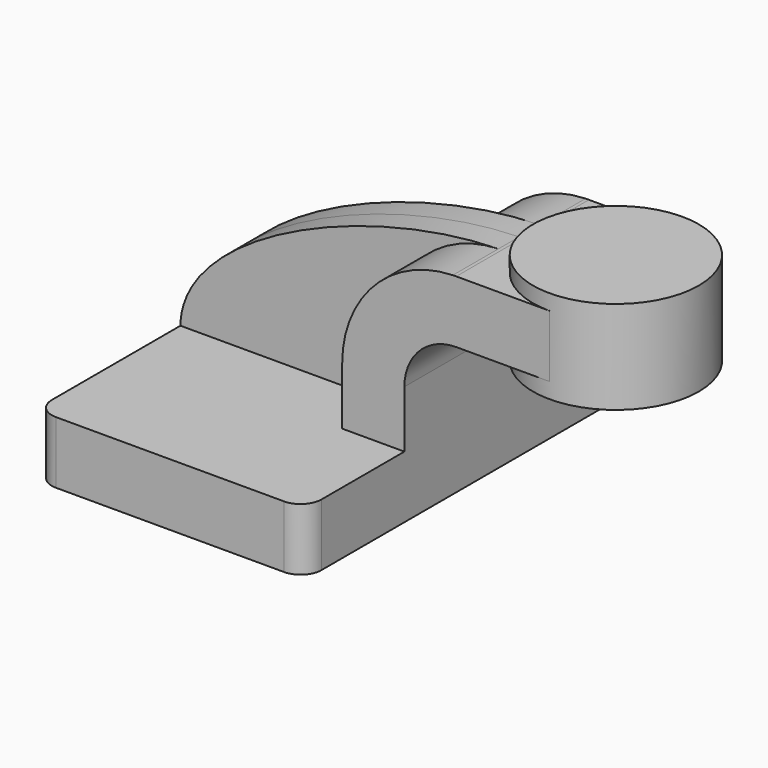
from build123d import *

# Parameters (mm, degrees)
F1_DEPTH = 63.5
F0_W     = 25.4
F0_H     = 19.05
F2_DEPTH = 25.4
F3_DEPTH = 7.9375
F5_R     = 6.35


with BuildPart() as f1:
    # F0 (on Front) → F1 (new body, symmetric)
    with BuildSketch(Plane.XZ):
        Polygon((-41.275, -9.525), (41.275, -9.525), (41.275, 9.525), (22.225, 9.525), (-41.275, 9.525), align=None)
    extrude(amount=F1_DEPTH, both=True)

    # F0 (on Front) → F2 (join, symmetric)
    with BuildSketch(Plane.XZ):
        with Locations((73.025, 52.4002)):
            Rectangle(F0_W, F0_H)
        with BuildLine():
            Line((22.225, 9.525), (41.275, 9.525))
            Line((41.275, 9.525), (41.275, 27.0002))
            ThreePointArc((41.275, 27.0002), (45.9246798487, 38.2255201513), (57.15, 42.8752))
            Line((57.15, 42.8752), (60.325, 42.8752))
            Line((60.325, 42.8752), (60.325, 61.9252))
            Line((60.325, 61.9252), (57.15, 61.9252))
            add(Edge.make_bspline(
                [(57.15, 61.9252), (56.8053733699, 61.9217904692), (56.4595398541, 61.9166487317), (56.1125444834, 61.9097876666)],
                knots=[0, 0, 0, 0, 0.944996545, 0.944996545, 0.944996545, 0.944996545], degree=3))
            ThreePointArc((56.1125444834, 61.9097876666), (32.09018397, 51.3263432525), (22.225, 27.0002))
            Line((22.225, 27.0002), (22.225, 9.525))
        make_face()
    extrude(amount=F2_DEPTH, both=True)

    # F0 (on Front) → F3 (join, symmetric)
    with BuildSketch(Plane.XZ):
        with BuildLine():
            add(Edge.make_bspline(
                [(56.1125444834, 61.9097876666), (15.5159426849, 61.107079759), (-40.983837288, 36.7706488832), (-41.275, 9.525)],
                knots=[0.944996545, 0.944996545, 0.944996545, 0.944996545, 111.5045361635, 111.5045361635, 111.5045361635, 111.5045361635], degree=3))
            Line((-41.275, 9.525), (22.225, 9.525))
            Line((22.225, 9.525), (22.225, 27.0002))
            ThreePointArc((22.225, 27.0002), (32.09018397, 51.3263432525), (56.1125444834, 61.9097876666))
        make_face()
    extrude(amount=F3_DEPTH, both=True)

    # F0 (on Front) → F4 (revolve)
    with BuildSketch(Plane.XZ):
        Polygon((85.725, 61.9252), (85.725, 42.8752), (85.725, 38.1), (111.125, 38.1), (111.125, 66.675), (85.725, 66.675), align=None)
    revolve(axis=Axis((85.725, 0, 52.3875), (0, 0, 1)))

    # F5
    f5_edges = [f1.edges().sort_by_distance(p)[0] for p in [
        (-41.275, 63.5, 0),
        (41.275, 63.5, 0),
        (-41.275, -63.5, 0),
        (41.275, -63.5, 0),
    ]]
    fillet(f5_edges, radius=F5_R)


solid = f1.part
